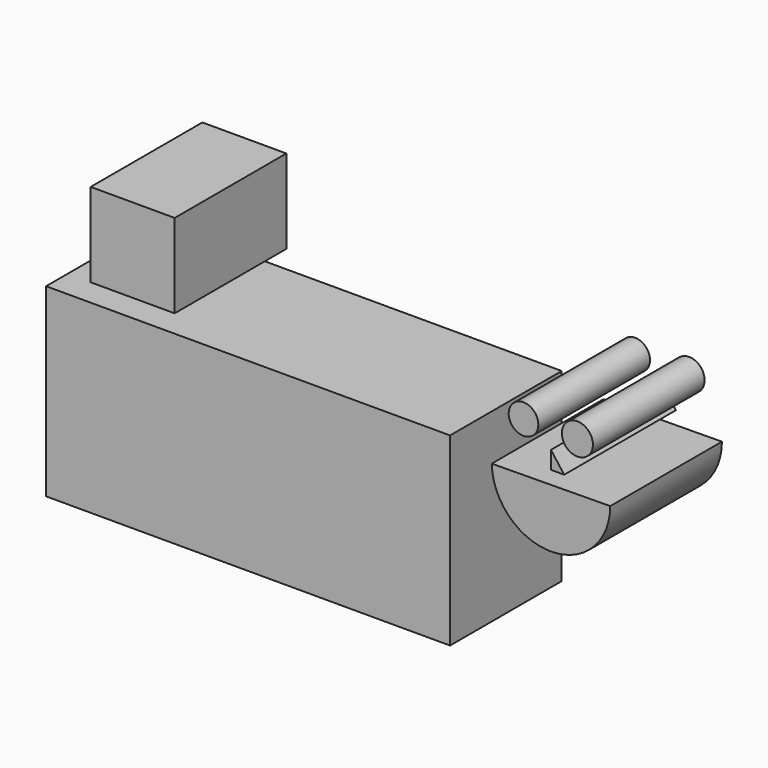
from build123d import *

# Parameters (mm, degrees)
F1_R     = 5.253022
F1_R_2   = 5.508223
F0_W     = 143.331006
F0_H     = 65.640218
F0_W_2   = 29.802561
F0_H_2   = 29.80256
F2_DEPTH = 49.53


with BuildPart() as f2:
    # F1 (on face) + F0 (on Front) → F2 (new body)
    with BuildSketch(Plane.XZ):
        with Locations((97.725712, 46.405662)):
            Circle(F1_R)
        with Locations((116.845511, 46.411794)):
            Circle(F1_R_2)
        Polygon((112.162083, 33.714831), (107.480191, 39.964292), (107.480191, 33.714831), align=None)
        with BuildLine():
            Line((128.503151, 29.229033), (86.461111, 28.824845))
            ThreePointArc((86.461111, 28.824845), (107.682294, 8.206797), (128.503151, 29.229033))
        make_face()
    with BuildSketch(Plane.XZ):
        Rectangle(F0_W, F0_H)
        with Locations((-40.94283, 54.083094)):
            Rectangle(F0_W_2, F0_H_2)
    extrude(amount=F2_DEPTH)


solid = f2.part
